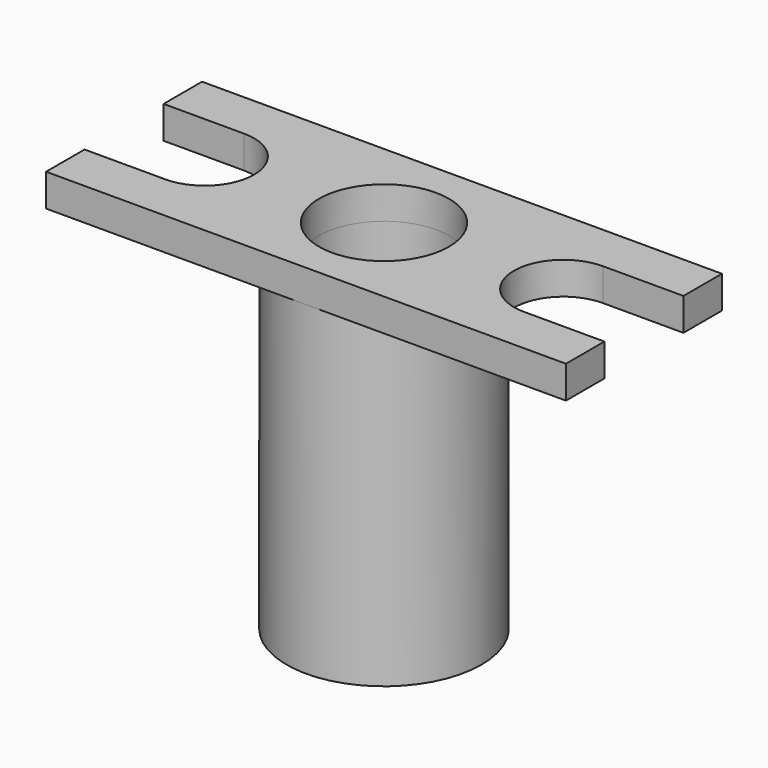
from build123d import *

# Parameters (mm, degrees)
F0_R     = 12.7
F1_DEPTH = 6.35
F2_DEPTH = 63.5
F3_R     = 19.05
F4_DEPTH = 6.35
F0_R_2   = 4.7625
F5_DEPTH = 63.501


with BuildPart() as f1:
    # F0 (on Top) → F1 (new body)
    with BuildSketch(Plane.XY):
        with BuildLine():
            Line((0, 9.398), (0, 0))
            Line((0, 0), (50.8, 0))
            ThreePointArc((50.8, 0), (31.75, 19.05), (50.8, 38.1))
            Line((50.8, 38.1), (0, 38.1))
            Line((0, 38.1), (0, 28.702))
            Line((0, 28.702), (15.748, 28.702))
            ThreePointArc((15.748, 28.702), (25.4, 19.05), (15.748, 9.398))
            Line((15.748, 9.398), (0, 9.398))
        make_face()
        with BuildLine():
            ThreePointArc((69.85, 19.05), (64.2703841816, 5.5796158184), (50.8, 0))
            Line((50.8, 0), (101.6, 0))
            Line((101.6, 0), (101.6, 9.398))
            Line((101.6, 9.398), (85.852, 9.398))
            ThreePointArc((85.852, 9.398), (76.2, 19.05), (85.852, 28.702))
            Line((85.852, 28.702), (101.6, 28.702))
            Line((101.6, 28.702), (101.6, 38.1))
            Line((101.6, 38.1), (50.8, 38.1))
            ThreePointArc((50.8, 38.1), (64.2703841816, 32.5203841816), (69.85, 19.05))
        make_face()
        with BuildLine():
            ThreePointArc((50.8, 38.1), (31.75, 19.05), (50.8, 0))
            ThreePointArc((50.8, 0), (64.2703841816, 5.5796158184), (69.85, 19.05))
            ThreePointArc((69.85, 19.05), (64.2703841816, 32.5203841816), (50.8, 38.1))
        make_face()
        with Locations((50.8, 19.05)):
            Circle(F0_R, mode=Mode.SUBTRACT)
    extrude(amount=F1_DEPTH)

    # F0 (on Top) → F2 (join)
    with BuildSketch(Plane.XY):
        with BuildLine():
            ThreePointArc((50.8, 38.1), (31.75, 19.05), (50.8, 0))
            ThreePointArc((50.8, 0), (64.2703841816, 5.5796158184), (69.85, 19.05))
            ThreePointArc((69.85, 19.05), (64.2703841816, 32.5203841816), (50.8, 38.1))
        make_face()
        with Locations((50.8, 19.05)):
            Circle(F0_R, mode=Mode.SUBTRACT)
    extrude(amount=-F2_DEPTH)

    # F3 (on face) → F4 (join)
    with BuildSketch(Plane(origin=(0, 0, -63.5), x_dir=(1, 0, 0), z_dir=(0, 0, -1))):
        with Locations((50.8, -19.05)):
            Circle(F3_R)
    extrude(amount=-F4_DEPTH)

    # F0 (on Top) → F5 (cut, through all)
    with BuildSketch(Plane.XY):
        with Locations((50.8, 19.05)):
            Circle(F0_R_2)
    extrude(amount=-F5_DEPTH, mode=Mode.SUBTRACT)


solid = f1.part
